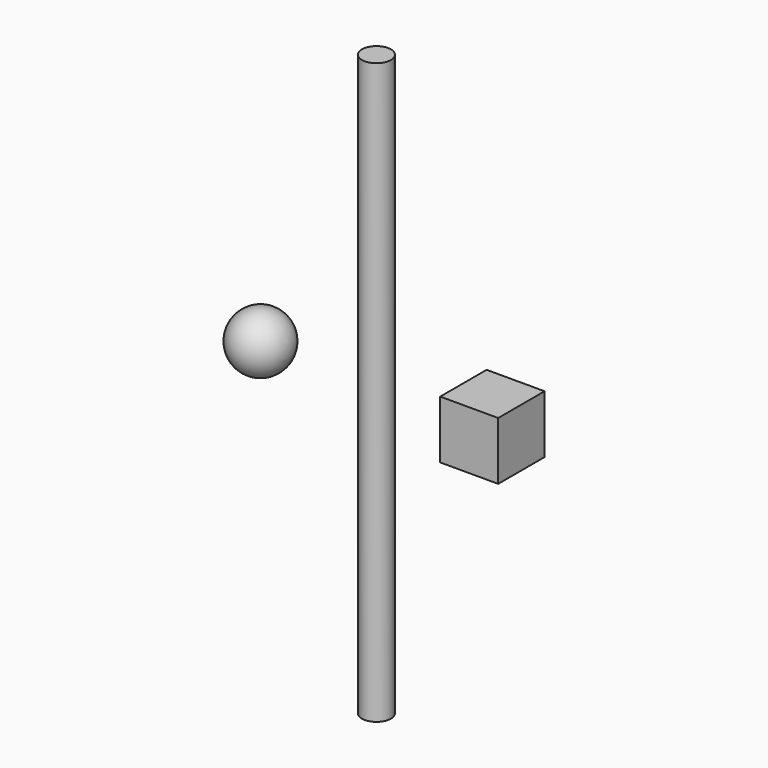
from build123d import *

# Parameters (mm, degrees)
CYLINDER_R     = 25
CYLINDER_DEPTH = 1000
CUBE_W         = 100
CUBE_H         = 100
CUBE_DEPTH     = 100


with BuildPart() as sphere:
    # sphere → sphere (revolve)
    with BuildSketch(Plane(origin=(-200, 0, 0), x_dir=(1, 0, 0), z_dir=(0, -1, 0))):
        with BuildLine():
            ThreePointArc((0, -50), (50, 0), (0, 50))
            Line((0, 50), (0, -50))
        make_face()
    revolve(axis=Axis((-200, 0, 0), (0, 0, 1)))


with BuildPart() as cylinder:
    # cylinder → cylinder (new body)
    with BuildSketch(Plane.XY.offset(-500)):
        Circle(CYLINDER_R)
    extrude(amount=CYLINDER_DEPTH)


with BuildPart() as cube:
    # cube → cube (new body)
    with BuildSketch(Plane(origin=(150, -50, -50), x_dir=(1, 0, 0), z_dir=(0, 0, 1))):
        with Locations((50, 50)):
            Rectangle(CUBE_W, CUBE_H)
    extrude(amount=CUBE_DEPTH)


solid = Compound([sphere.part, cylinder.part, cube.part])
